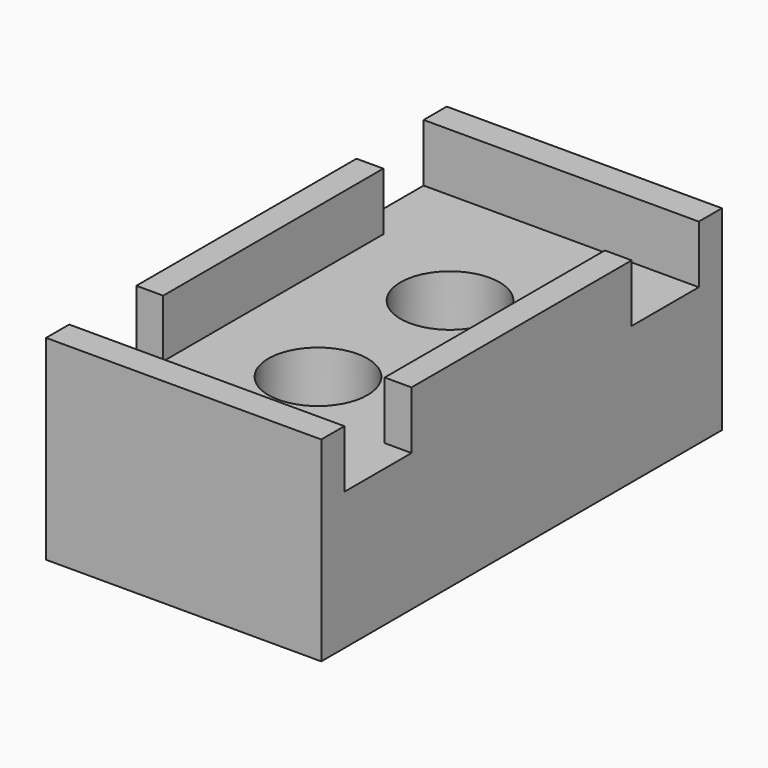
from build123d import *

# Parameters (mm, degrees)
F0_W     = 0.975
F0_H     = 3.05
F0_H_2   = 10
F0_R     = 1.8
F1_DEPTH = 5
F2_DEPTH = 1.5
F3_DEPTH = 7.1


with BuildPart() as f1:
    # F0 (on Top) → F1 (new body)
    with BuildSketch(Plane.XY):
        Polygon((5, -9.1), (5, -8.05), (4.025, -8.05), (-4.025, -8.05), (-5, -8.05), (-5, -9.1), align=None)
        with Locations((4.5125, -6.525)):
            Rectangle(F0_W, F0_H)
        Polygon((4.025, 5), (4.025, 8.05), (-4.025, 8.05), (-4.025, 5), (-4.025, -5), (-4.025, -8.05), (4.025, -8.05), (4.025, -5), align=None)
        with BuildLine():
            ThreePointArc((-2.8, 3), (0, 5.8), (2.8, 3))
            Line((2.8, 3), (2.8, 0))
            Line((2.8, 0), (2.8, -3))
            ThreePointArc((2.8, -3), (0, -5.8), (-2.8, -3))
            Line((-2.8, -3), (-2.8, 0))
            Line((-2.8, 0), (-2.8, 3))
        make_face(mode=Mode.SUBTRACT)
        with Locations((-4.5125, -6.525)):
            Rectangle(F0_W, F0_H)
        with Locations((-4.5125, 0)):
            Rectangle(F0_W, F0_H_2)
        with Locations((4.5125, 0)):
            Rectangle(F0_W, F0_H_2)
        with Locations((4.5125, 6.525)):
            Rectangle(F0_W, F0_H)
        Polygon((5, 8.05), (5, 9.1), (-5, 9.1), (-5, 8.05), (-4.025, 8.05), (4.025, 8.05), align=None)
        with BuildLine():
            Line((2.8, 0), (2.8, 3))
            ThreePointArc((2.8, 3), (0, 5.8), (-2.8, 3))
            Line((-2.8, 3), (-2.8, 0))
            Line((-2.8, 0), (-2.8, -3))
            ThreePointArc((-2.8, -3), (0, -5.8), (2.8, -3))
            Line((2.8, -3), (2.8, 0))
        make_face()
        with Locations((0, -3)):
            Circle(F0_R, mode=Mode.SUBTRACT)
        with Locations((0, 3)):
            Circle(F0_R, mode=Mode.SUBTRACT)
        with Locations((-4.5125, 6.525)):
            Rectangle(F0_W, F0_H)
    extrude(amount=F1_DEPTH)

    # F0 (on Top) → F2 (cut)
    with BuildSketch(Plane.XY):
        with BuildLine():
            Line((2.8, 0), (2.8, 3))
            ThreePointArc((2.8, 3), (0, 5.8), (-2.8, 3))
            Line((-2.8, 3), (-2.8, 0))
            Line((-2.8, 0), (-2.8, -3))
            ThreePointArc((-2.8, -3), (0, -5.8), (2.8, -3))
            Line((2.8, -3), (2.8, 0))
        make_face()
        with Locations((0, -3)):
            Circle(F0_R, mode=Mode.SUBTRACT)
        with Locations((0, 3)):
            Circle(F0_R, mode=Mode.SUBTRACT)
    extrude(amount=F2_DEPTH, mode=Mode.SUBTRACT)

    # F0 (on Top) → F3 (join)
    with BuildSketch(Plane.XY):
        with Locations((-4.5125, 0)):
            Rectangle(F0_W, F0_H_2)
        Polygon((5, -9.1), (5, -8.05), (4.025, -8.05), (-4.025, -8.05), (-5, -8.05), (-5, -9.1), align=None)
        with Locations((4.5125, 0)):
            Rectangle(F0_W, F0_H_2)
        Polygon((5, 8.05), (5, 9.1), (-5, 9.1), (-5, 8.05), (-4.025, 8.05), (4.025, 8.05), align=None)
    extrude(amount=F3_DEPTH)


solid = f1.part
